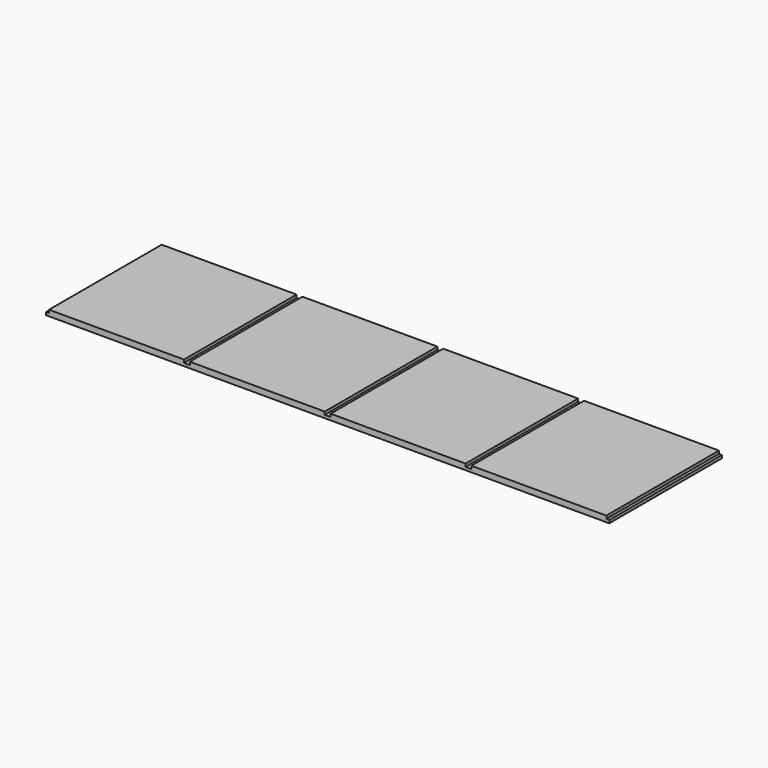
from build123d import *

# Parameters (mm, degrees)
F0_W     = 1219.2
F0_H     = 304.8
F1_DEPTH = 6.35
F2_W     = 12.7
F2_H     = 6.35
F2_W_2   = 6.35
F3_DEPTH = 152.4


with BuildPart() as f1:
    # F0 (on Top) → F1 (new body, symmetric)
    with BuildSketch(Plane.XY):
        Rectangle(F0_W, F0_H)
    extrude(amount=F1_DEPTH, both=True)

    # F2 (on Front) → F3 (cut, symmetric)
    with BuildSketch(Plane.XZ):
        with Locations((-304.8, 3.175)):
            Rectangle(F2_W, F2_H)
        with Locations((0, 3.175)):
            Rectangle(F2_W, F2_H)
        with Locations((304.8, 3.175)):
            Rectangle(F2_W, F2_H)
        with Locations((-606.425, 3.175)):
            Rectangle(F2_W_2, F2_H)
        with Locations((606.425, 3.175)):
            Rectangle(F2_W_2, F2_H)
    extrude(amount=F3_DEPTH, both=True, mode=Mode.SUBTRACT)


solid = f1.part
